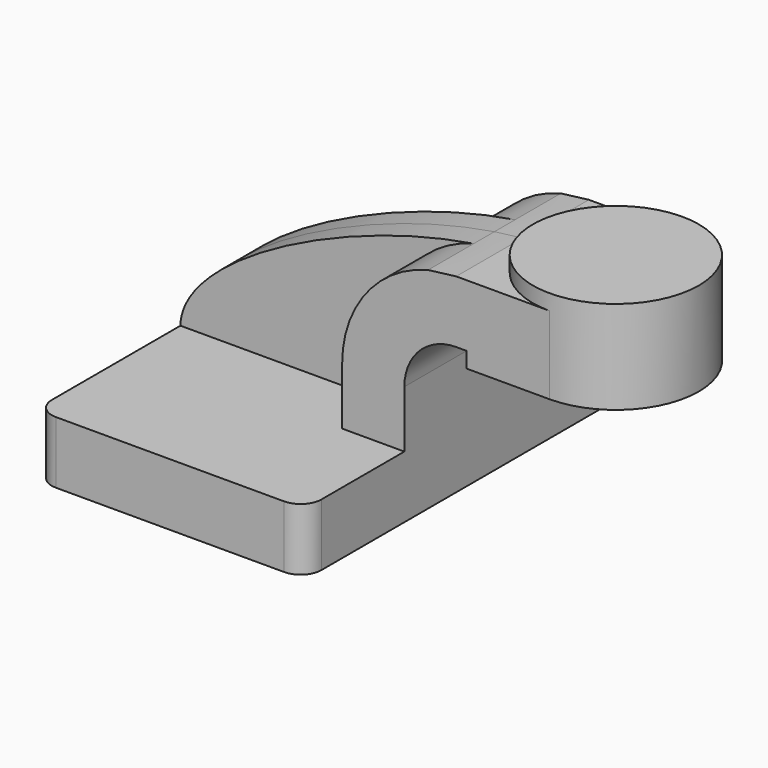
from build123d import *

# Parameters (mm, degrees)
F1_DEPTH = 63.5
F2_DEPTH = 25.4
F3_DEPTH = 7.9375
F5_R     = 6.35


with BuildPart() as f1:
    # F0 (on Front) → F1 (new body, symmetric)
    with BuildSketch(Plane.XZ):
        Polygon((22.225, 9.525), (-41.275, 9.525), (-41.275, -9.525), (41.275, -9.525), (41.275, 9.525), align=None)
    extrude(amount=F1_DEPTH, both=True)

    # F0 (on Front) → F2 (join, symmetric)
    with BuildSketch(Plane.XZ):
        with BuildLine():
            Line((22.225, 27.0002), (22.225, 9.525))
            Line((22.225, 9.525), (41.275, 9.525))
            Line((41.275, 9.525), (41.275, 27.0002))
            ThreePointArc((41.275, 27.0002), (45.92468, 38.22552), (57.15, 42.8752))
            Line((57.15, 42.8752), (60.325, 42.8752))
            Line((60.325, 42.8752), (60.325, 61.9252))
            Line((60.325, 61.9252), (57.15, 61.9252))
            add(Edge.make_bspline(
                [(48.54343, 60.848133), (51.47075, 61.31001), (54.347268, 61.6721), (57.15, 61.9252)],
                knots=[103.89725, 103.89725, 103.89725, 103.89725, 111.504536, 111.504536, 111.504536, 111.504536], degree=3))
            ThreePointArc((48.54343, 60.848133), (29.578819, 48.438147), (22.225, 27.0002))
        make_face()
        Polygon((85.725, 61.9252), (60.325, 61.9252), (60.325, 42.8752), (60.325, 38.1), (85.725, 38.1), align=None)
    extrude(amount=F2_DEPTH, both=True)

    # F0 (on Front) → F3 (join, symmetric)
    with BuildSketch(Plane.XZ):
        with BuildLine():
            add(Edge.make_bspline(
                [(-41.275, 9.525), (-40.893038, 29.61845), (8.563274, 54.539999), (48.54343, 60.848133)],
                knots=[0, 0, 0, 0, 103.89725, 103.89725, 103.89725, 103.89725], degree=3))
            Line((-41.275, 9.525), (22.225, 9.525))
            Line((22.225, 9.525), (22.225, 27.0002))
            ThreePointArc((22.225, 27.0002), (29.578819, 48.438147), (48.54343, 60.848133))
        make_face()
    extrude(amount=F3_DEPTH, both=True)

    # F0 (on Front) → F4 (revolve)
    with BuildSketch(Plane.XZ):
        Polygon((85.725, 66.675), (85.725, 61.9252), (85.725, 38.1), (111.125, 38.1), (111.125, 66.675), align=None)
    revolve(axis=Axis((85.725, 0, 52.3875), (0, 0, 1)))

    # F5
    f5_edges = [f1.edges().sort_by_distance(p)[0] for p in [
        (-41.275, -63.5, 0),
        (41.275, -63.5, 0),
        (41.275, 63.5, 0),
        (-41.275, 63.5, 0),
    ]]
    fillet(f5_edges, radius=F5_R)


solid = f1.part
